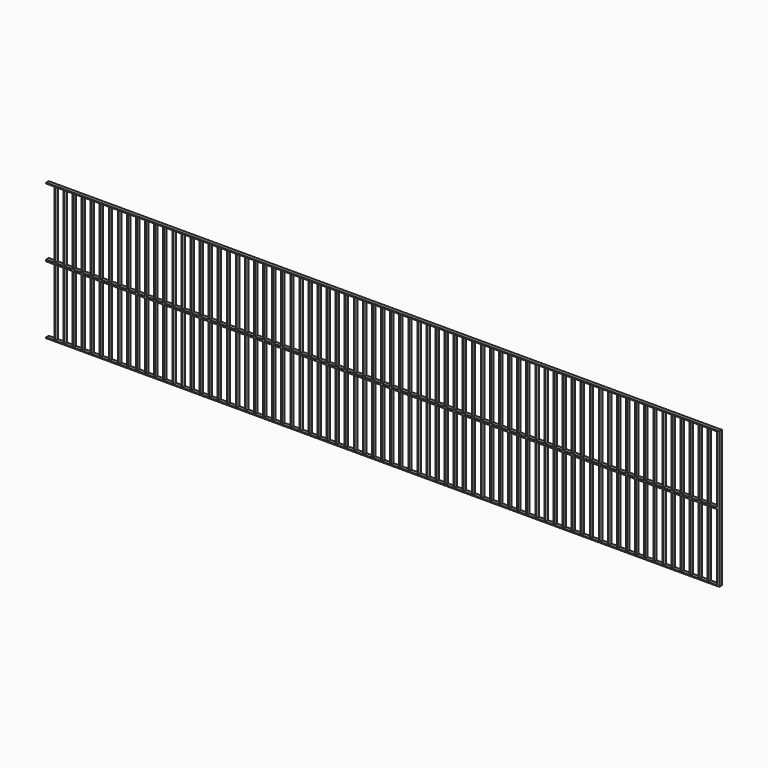
from build123d import *

# Parameters (mm, degrees)
F0_W     = 10363.2
F0_H     = 2108.2
F1_DEPTH = 50.8
F2_W     = 127
F2_H     = 1028.7
F3_DEPTH = 76.2


with BuildPart() as f1:
    # F0 (on Front) → F1 (new body)
    with BuildSketch(Plane.XZ):
        with Locations((5181.6, 1054.1)):
            Rectangle(F0_W, F0_H)
    extrude(amount=F1_DEPTH)

    # F2 (on face) → F3 (cut)
    with BuildSketch(Plane.XZ.offset(50.8)):
        with Locations((63.5, 527.05)):
            Rectangle(F2_W, F2_H)
        with Locations((63.5, 1581.15)):
            Rectangle(F2_W, F2_H)
        with Locations((203.2, 527.05)):
            Rectangle(F2_W, F2_H)
        with Locations((203.2, 1581.15)):
            Rectangle(F2_W, F2_H)
        with Locations((342.9, 527.05)):
            Rectangle(F2_W, F2_H)
        with Locations((342.9, 1581.15)):
            Rectangle(F2_W, F2_H)
        with Locations((482.6, 527.05)):
            Rectangle(F2_W, F2_H)
        with Locations((482.6, 1581.15)):
            Rectangle(F2_W, F2_H)
        with Locations((622.3, 527.05)):
            Rectangle(F2_W, F2_H)
        with Locations((622.3, 1581.15)):
            Rectangle(F2_W, F2_H)
        with Locations((762, 527.05)):
            Rectangle(F2_W, F2_H)
        with Locations((762, 1581.15)):
            Rectangle(F2_W, F2_H)
        with Locations((901.7, 527.05)):
            Rectangle(F2_W, F2_H)
        with Locations((901.7, 1581.15)):
            Rectangle(F2_W, F2_H)
        with Locations((1041.4, 527.05)):
            Rectangle(F2_W, F2_H)
        with Locations((1041.4, 1581.15)):
            Rectangle(F2_W, F2_H)
        with Locations((1181.1, 527.05)):
            Rectangle(F2_W, F2_H)
        with Locations((1181.1, 1581.15)):
            Rectangle(F2_W, F2_H)
        with Locations((1320.8, 527.05)):
            Rectangle(F2_W, F2_H)
        with Locations((1320.8, 1581.15)):
            Rectangle(F2_W, F2_H)
        with Locations((1460.5, 527.05)):
            Rectangle(F2_W, F2_H)
        with Locations((1460.5, 1581.15)):
            Rectangle(F2_W, F2_H)
        with Locations((1600.2, 527.05)):
            Rectangle(F2_W, F2_H)
        with Locations((1600.2, 1581.15)):
            Rectangle(F2_W, F2_H)
        with Locations((1739.9, 527.05)):
            Rectangle(F2_W, F2_H)
        with Locations((1739.9, 1581.15)):
            Rectangle(F2_W, F2_H)
        with Locations((1879.6, 527.05)):
            Rectangle(F2_W, F2_H)
        with Locations((1879.6, 1581.15)):
            Rectangle(F2_W, F2_H)
        with Locations((2019.3, 527.05)):
            Rectangle(F2_W, F2_H)
        with Locations((2019.3, 1581.15)):
            Rectangle(F2_W, F2_H)
        with Locations((2159, 527.05)):
            Rectangle(F2_W, F2_H)
        with Locations((2159, 1581.15)):
            Rectangle(F2_W, F2_H)
        with Locations((2298.7, 527.05)):
            Rectangle(F2_W, F2_H)
        with Locations((2298.7, 1581.15)):
            Rectangle(F2_W, F2_H)
        with Locations((2438.4, 527.05)):
            Rectangle(F2_W, F2_H)
        with Locations((2438.4, 1581.15)):
            Rectangle(F2_W, F2_H)
        with Locations((2578.1, 527.05)):
            Rectangle(F2_W, F2_H)
        with Locations((2578.1, 1581.15)):
            Rectangle(F2_W, F2_H)
        with Locations((2717.8, 527.05)):
            Rectangle(F2_W, F2_H)
        with Locations((2717.8, 1581.15)):
            Rectangle(F2_W, F2_H)
        with Locations((2857.5, 527.05)):
            Rectangle(F2_W, F2_H)
        with Locations((2857.5, 1581.15)):
            Rectangle(F2_W, F2_H)
        with Locations((2997.2, 527.05)):
            Rectangle(F2_W, F2_H)
        with Locations((2997.2, 1581.15)):
            Rectangle(F2_W, F2_H)
        with Locations((3136.9, 527.05)):
            Rectangle(F2_W, F2_H)
        with Locations((3136.9, 1581.15)):
            Rectangle(F2_W, F2_H)
        with Locations((3276.6, 527.05)):
            Rectangle(F2_W, F2_H)
        with Locations((3276.6, 1581.15)):
            Rectangle(F2_W, F2_H)
        with Locations((3416.3, 527.05)):
            Rectangle(F2_W, F2_H)
        with Locations((3416.3, 1581.15)):
            Rectangle(F2_W, F2_H)
        with Locations((3556, 527.05)):
            Rectangle(F2_W, F2_H)
        with Locations((3556, 1581.15)):
            Rectangle(F2_W, F2_H)
        with Locations((3695.7, 527.05)):
            Rectangle(F2_W, F2_H)
        with Locations((3695.7, 1581.15)):
            Rectangle(F2_W, F2_H)
        with Locations((3835.4, 527.05)):
            Rectangle(F2_W, F2_H)
        with Locations((3835.4, 1581.15)):
            Rectangle(F2_W, F2_H)
        with Locations((3975.1, 527.05)):
            Rectangle(F2_W, F2_H)
        with Locations((3975.1, 1581.15)):
            Rectangle(F2_W, F2_H)
        with Locations((4114.8, 527.05)):
            Rectangle(F2_W, F2_H)
        with Locations((4114.8, 1581.15)):
            Rectangle(F2_W, F2_H)
        with Locations((4254.5, 527.05)):
            Rectangle(F2_W, F2_H)
        with Locations((4254.5, 1581.15)):
            Rectangle(F2_W, F2_H)
        with Locations((4394.2, 527.05)):
            Rectangle(F2_W, F2_H)
        with Locations((4394.2, 1581.15)):
            Rectangle(F2_W, F2_H)
        with Locations((4533.9, 527.05)):
            Rectangle(F2_W, F2_H)
        with Locations((4533.9, 1581.15)):
            Rectangle(F2_W, F2_H)
        with Locations((4673.6, 527.05)):
            Rectangle(F2_W, F2_H)
        with Locations((4673.6, 1581.15)):
            Rectangle(F2_W, F2_H)
        with Locations((4813.3, 527.05)):
            Rectangle(F2_W, F2_H)
        with Locations((4813.3, 1581.15)):
            Rectangle(F2_W, F2_H)
        with Locations((4953, 527.05)):
            Rectangle(F2_W, F2_H)
        with Locations((4953, 1581.15)):
            Rectangle(F2_W, F2_H)
        with Locations((5092.7, 527.05)):
            Rectangle(F2_W, F2_H)
        with Locations((5092.7, 1581.15)):
            Rectangle(F2_W, F2_H)
        with Locations((5232.4, 527.05)):
            Rectangle(F2_W, F2_H)
        with Locations((5232.4, 1581.15)):
            Rectangle(F2_W, F2_H)
        with Locations((5372.1, 527.05)):
            Rectangle(F2_W, F2_H)
        with Locations((5372.1, 1581.15)):
            Rectangle(F2_W, F2_H)
        with Locations((5511.8, 527.05)):
            Rectangle(F2_W, F2_H)
        with Locations((5511.8, 1581.15)):
            Rectangle(F2_W, F2_H)
        with Locations((5651.5, 527.05)):
            Rectangle(F2_W, F2_H)
        with Locations((5651.5, 1581.15)):
            Rectangle(F2_W, F2_H)
        with Locations((5791.2, 527.05)):
            Rectangle(F2_W, F2_H)
        with Locations((5791.2, 1581.15)):
            Rectangle(F2_W, F2_H)
        with Locations((5930.9, 527.05)):
            Rectangle(F2_W, F2_H)
        with Locations((5930.9, 1581.15)):
            Rectangle(F2_W, F2_H)
        with Locations((6070.6, 527.05)):
            Rectangle(F2_W, F2_H)
        with Locations((6070.6, 1581.15)):
            Rectangle(F2_W, F2_H)
        with Locations((6210.3, 527.05)):
            Rectangle(F2_W, F2_H)
        with Locations((6210.3, 1581.15)):
            Rectangle(F2_W, F2_H)
        with Locations((6350, 527.05)):
            Rectangle(F2_W, F2_H)
        with Locations((6350, 1581.15)):
            Rectangle(F2_W, F2_H)
        with Locations((6489.7, 527.05)):
            Rectangle(F2_W, F2_H)
        with Locations((6489.7, 1581.15)):
            Rectangle(F2_W, F2_H)
        with Locations((6629.4, 527.05)):
            Rectangle(F2_W, F2_H)
        with Locations((6629.4, 1581.15)):
            Rectangle(F2_W, F2_H)
        with Locations((6769.1, 527.05)):
            Rectangle(F2_W, F2_H)
        with Locations((6769.1, 1581.15)):
            Rectangle(F2_W, F2_H)
        with Locations((6908.8, 527.05)):
            Rectangle(F2_W, F2_H)
        with Locations((6908.8, 1581.15)):
            Rectangle(F2_W, F2_H)
        with Locations((7048.5, 527.05)):
            Rectangle(F2_W, F2_H)
        with Locations((7048.5, 1581.15)):
            Rectangle(F2_W, F2_H)
        with Locations((7188.2, 527.05)):
            Rectangle(F2_W, F2_H)
        with Locations((7188.2, 1581.15)):
            Rectangle(F2_W, F2_H)
        with Locations((7327.9, 527.05)):
            Rectangle(F2_W, F2_H)
        with Locations((7327.9, 1581.15)):
            Rectangle(F2_W, F2_H)
        with Locations((7467.6, 527.05)):
            Rectangle(F2_W, F2_H)
        with Locations((7467.6, 1581.15)):
            Rectangle(F2_W, F2_H)
        with Locations((7607.3, 527.05)):
            Rectangle(F2_W, F2_H)
        with Locations((7607.3, 1581.15)):
            Rectangle(F2_W, F2_H)
        with Locations((7747, 527.05)):
            Rectangle(F2_W, F2_H)
        with Locations((7747, 1581.15)):
            Rectangle(F2_W, F2_H)
        with Locations((7886.7, 527.05)):
            Rectangle(F2_W, F2_H)
        with Locations((7886.7, 1581.15)):
            Rectangle(F2_W, F2_H)
        with Locations((8026.4, 527.05)):
            Rectangle(F2_W, F2_H)
        with Locations((8026.4, 1581.15)):
            Rectangle(F2_W, F2_H)
        with Locations((8166.1, 527.05)):
            Rectangle(F2_W, F2_H)
        with Locations((8166.1, 1581.15)):
            Rectangle(F2_W, F2_H)
        with Locations((8305.8, 527.05)):
            Rectangle(F2_W, F2_H)
        with Locations((8305.8, 1581.15)):
            Rectangle(F2_W, F2_H)
        with Locations((8445.5, 527.05)):
            Rectangle(F2_W, F2_H)
        with Locations((8445.5, 1581.15)):
            Rectangle(F2_W, F2_H)
        with Locations((8585.2, 527.05)):
            Rectangle(F2_W, F2_H)
        with Locations((8585.2, 1581.15)):
            Rectangle(F2_W, F2_H)
        with Locations((8724.9, 527.05)):
            Rectangle(F2_W, F2_H)
        with Locations((8724.9, 1581.15)):
            Rectangle(F2_W, F2_H)
        with Locations((8864.6, 527.05)):
            Rectangle(F2_W, F2_H)
        with Locations((8864.6, 1581.15)):
            Rectangle(F2_W, F2_H)
        with Locations((9004.3, 527.05)):
            Rectangle(F2_W, F2_H)
        with Locations((9004.3, 1581.15)):
            Rectangle(F2_W, F2_H)
        with Locations((9144, 527.05)):
            Rectangle(F2_W, F2_H)
        with Locations((9144, 1581.15)):
            Rectangle(F2_W, F2_H)
        with Locations((9283.7, 527.05)):
            Rectangle(F2_W, F2_H)
        with Locations((9283.7, 1581.15)):
            Rectangle(F2_W, F2_H)
        with Locations((9423.4, 527.05)):
            Rectangle(F2_W, F2_H)
        with Locations((9423.4, 1581.15)):
            Rectangle(F2_W, F2_H)
        with Locations((9563.1, 527.05)):
            Rectangle(F2_W, F2_H)
        with Locations((9563.1, 1581.15)):
            Rectangle(F2_W, F2_H)
        with Locations((9702.8, 527.05)):
            Rectangle(F2_W, F2_H)
        with Locations((9702.8, 1581.15)):
            Rectangle(F2_W, F2_H)
        with Locations((9842.5, 527.05)):
            Rectangle(F2_W, F2_H)
        with Locations((9842.5, 1581.15)):
            Rectangle(F2_W, F2_H)
        with Locations((9982.2, 527.05)):
            Rectangle(F2_W, F2_H)
        with Locations((9982.2, 1581.15)):
            Rectangle(F2_W, F2_H)
        with Locations((10121.9, 527.05)):
            Rectangle(F2_W, F2_H)
        with Locations((10121.9, 1581.15)):
            Rectangle(F2_W, F2_H)
        with Locations((10261.6, 527.05)):
            Rectangle(F2_W, F2_H)
        with Locations((10261.6, 1581.15)):
            Rectangle(F2_W, F2_H)
    extrude(amount=-F3_DEPTH, mode=Mode.SUBTRACT)


solid = f1.part
